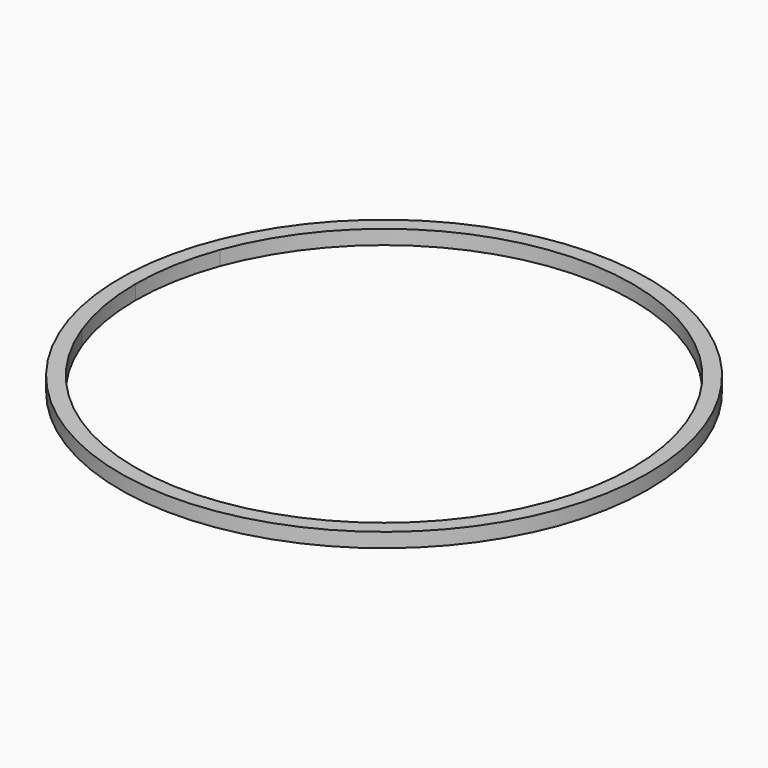
from build123d import *

# Parameters (mm, degrees)
F0_R     = 55
F1_DEPTH = 1.5


with BuildPart() as f1:
    # F0 (on Top) → F1 (new body, symmetric)
    with BuildSketch(Plane.XY):
        Circle(F0_R)
        with BuildLine():
            ThreePointArc((-48.572008, -18), (-50.986616, -9.143576), (-51.8, 0))
            ThreePointArc((-51.8, 0), (-50.986616, 9.143576), (-48.572008, 18))
            ThreePointArc((-48.572008, 18), (0, 51.8), (48.572008, 18))
            ThreePointArc((48.572008, 18), (50.986616, 9.143576), (51.8, 0))
            ThreePointArc((51.8, 0), (50.986616, -9.143576), (48.572008, -18))
            ThreePointArc((48.572008, -18), (0, -51.8), (-48.572008, -18))
        make_face(mode=Mode.SUBTRACT)
    extrude(amount=F1_DEPTH, both=True)


solid = f1.part
